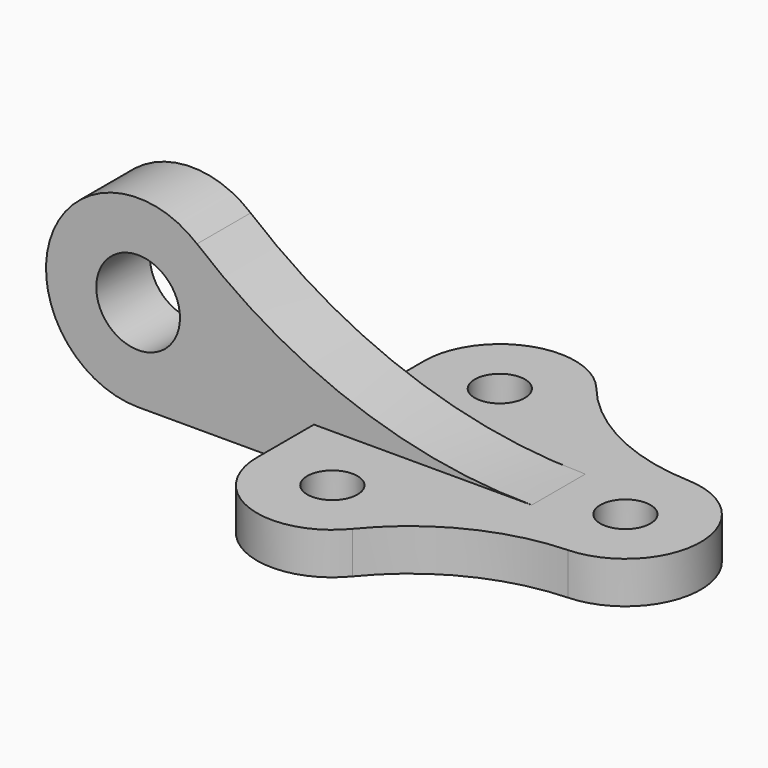
from build123d import *

# Parameters (mm, degrees)
F0_R     = 6
F1_DEPTH = 10
F2_R     = 10
F3_DEPTH = 8


with BuildPart() as f1:
    # F0 (on Top) → F1 (new body)
    with BuildSketch(Plane.XY):
        with BuildLine():
            ThreePointArc((50.720724, 17.985565), (30.362055, 23.224109), (13.956018, 36.367918))
            ThreePointArc((13.956018, 36.367918), (-6.032896, 41.958896), (-18, 25))
            Line((-18, 25), (-18, -25))
            ThreePointArc((-18, -25), (-6.032896, -41.958896), (13.956018, -36.367918))
            ThreePointArc((13.956018, -36.367918), (30.362055, -23.224109), (50.720724, -17.985565))
            ThreePointArc((50.720724, -17.985565), (68, 0), (50.720724, 17.985565))
        make_face()
        with Locations((0, -25)):
            Circle(F0_R, mode=Mode.SUBTRACT)
        with Locations((0, 25)):
            Circle(F0_R, mode=Mode.SUBTRACT)
        with Locations((50, 0)):
            Circle(F0_R, mode=Mode.SUBTRACT)
    extrude(amount=F1_DEPTH)

    # F2 (on Front) → F3 (join, symmetric)
    with BuildSketch(Plane.XZ):
        with BuildLine():
            ThreePointArc((34.021274, 10), (-8.487228, 17.449895), (-45.928789, 38.911565))
            ThreePointArc((-45.928789, 38.911565), (-80.688818, 29.481496), (-60, 0))
            Line((-60, 0), (26.773975, 0))
            Line((26.773975, 0), (34.021274, 10))
        make_face()
        with Locations((-60, 22)):
            Circle(F2_R, mode=Mode.SUBTRACT)
    extrude(amount=F3_DEPTH, both=True)


solid = f1.part
